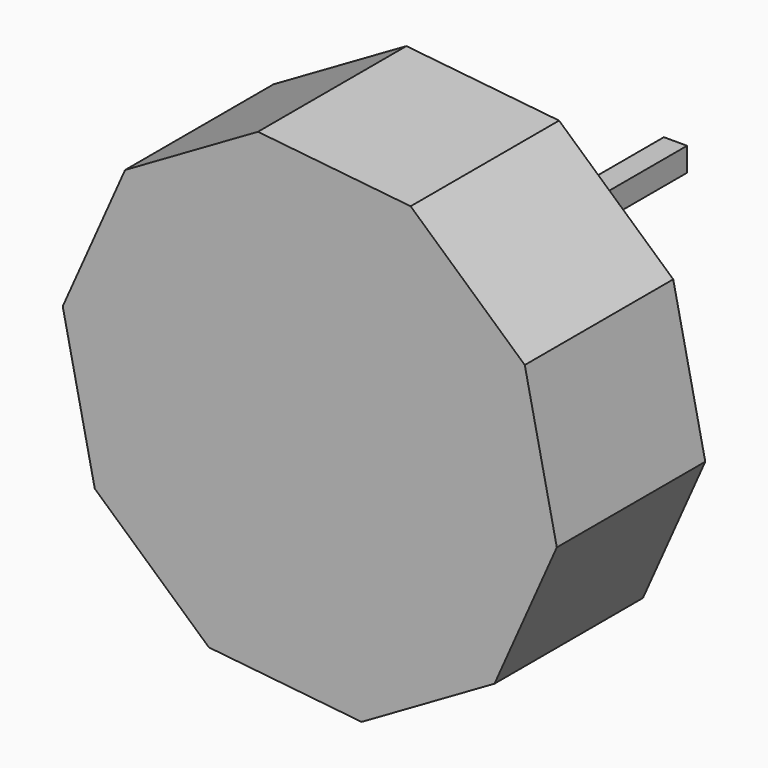
from build123d import *

# Parameters (mm, degrees)
F1_DEPTH = 50.8
F2_W     = 37.990361
F2_H     = 6.512299
F3_DEPTH = 6.35


with BuildPart() as f1:
    # F0 (on Front) → F1 (new body)
    with BuildSketch(Plane.XZ):
        Polygon((-14.189722, 66.498518), (-50.566575, 45.457922), (-67.628714, 7.053945), (-58.858984, -34.0444), (-27.607122, -62.138941), (14.189722, -66.498518), (50.566575, -45.457922), (67.628714, -7.053945), (58.858984, 34.0444), (27.607122, 62.138941), align=None)
    extrude(amount=F1_DEPTH)


with BuildPart() as f3:
    # F2 (on Right) → F3 (new body)
    with BuildSketch(Plane.YZ):
        with Locations((51.373325, 17.298303)):
            Rectangle(F2_W, F2_H)
    extrude(amount=F3_DEPTH)


solid = Compound([f1.part, f3.part])
